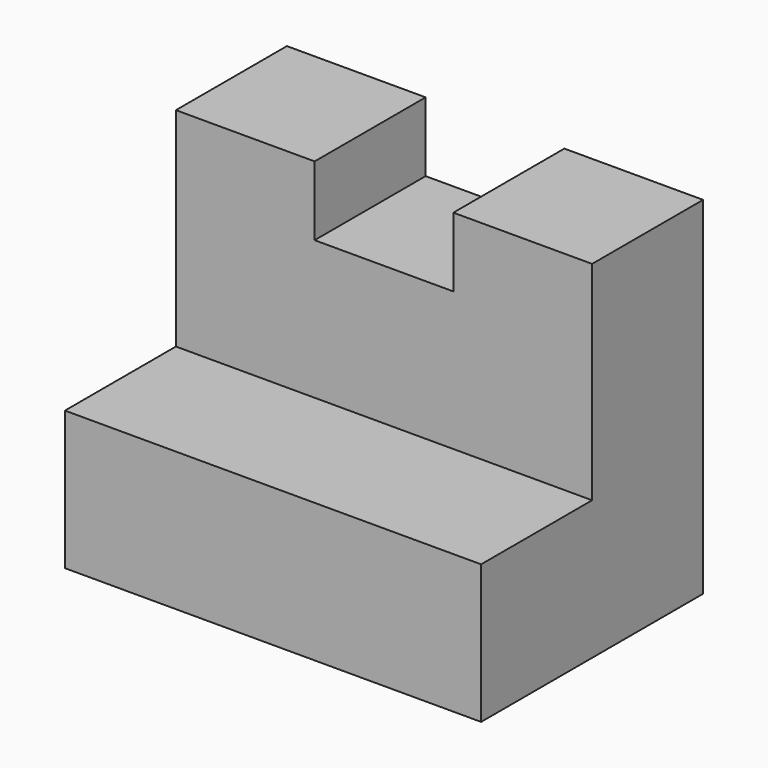
from build123d import *

# Parameters (mm, degrees)
F1_DEPTH = 25.4
F2_DEPTH = 12.7
F4_DEPTH = 12.7


with BuildPart() as f1:
    # F0 (on Front) → F1 (new body)
    with BuildSketch(Plane.XZ):
        Polygon((-30.462329, 36.458938), (-43.162329, 36.458938), (-43.162329, 4.708938), (-5.062329, 4.708938), (-5.062329, 36.458938), (-17.762329, 36.458938), (-17.762329, 30.108938), (-30.462329, 30.108938), align=None)
    extrude(amount=F1_DEPTH)

    # F1_face (on face) → F2 (join)
    with BuildSketch(Plane(origin=(-24.112329, -25.4, 19.676795), x_dir=(1, 0, 0), z_dir=(0, -1, 0))):
        Polygon((6.35, 10.432143), (-6.35, 10.432143), (-6.35, 16.782143), (-19.05, 16.782143), (-19.05, -14.967857), (19.05, -14.967857), (19.05, 16.782143), (6.35, 16.782143), align=None)
    extrude(amount=-F2_DEPTH)

    # F3 (on face) → F4 (cut)
    with BuildSketch(Plane.XZ.offset(25.4)):
        Polygon((-43.162329, 36.458938), (-43.162329, 17.408938), (-5.062329, 17.408938), (-5.062329, 36.458938), (-17.762329, 36.458938), (-17.762329, 30.108938), (-30.462329, 30.108938), (-30.462329, 36.458938), align=None)
    extrude(amount=-F4_DEPTH, mode=Mode.SUBTRACT)


solid = f1.part
